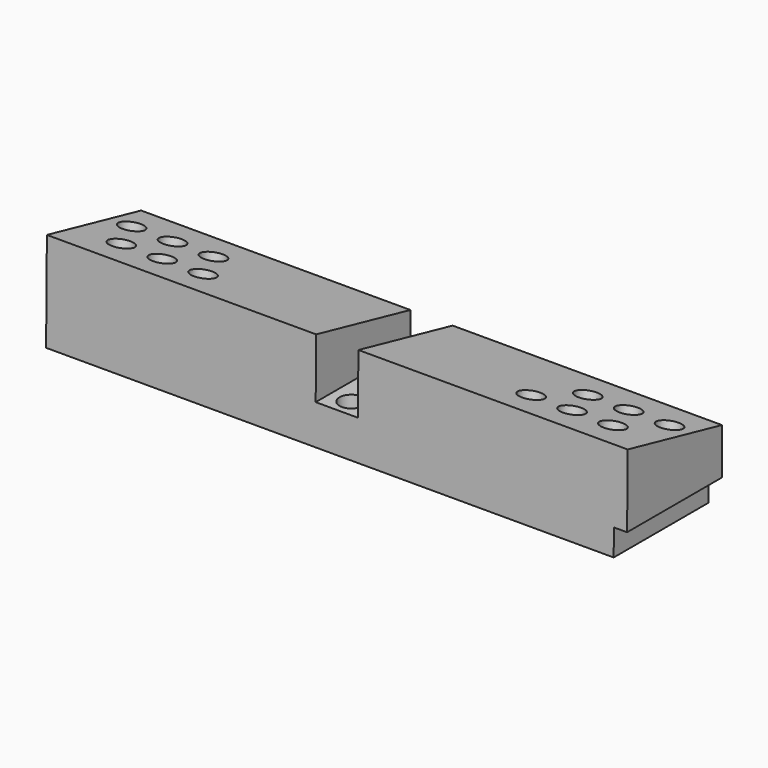
from build123d import *

# Parameters (mm, degrees)
F1_DEPTH  = 88
F2_R      = 1.778
F3_DEPTH  = 5
F4_R      = 1.778
F5_DEPTH  = 11.627384
F7_W      = 6.4
F7_H      = 21.920782
F8_DEPTH  = 25
F9_R      = 5
F10_DEPTH = 6
F11_W     = 2
F11_H     = 18
F12_DEPTH = 4


with BuildPart() as f1:
    # F0 (on Right) → F1 (new body)
    with BuildSketch(Plane.YZ):
        Polygon((0.151508, 14.999235), (0, 0), (18, 0), (18, 11), align=None)
    extrude(amount=F1_DEPTH)

    # F2 (on face) → F3 (cut)
    with BuildSketch(Plane(origin=(0, 3.207392, 14.314516), x_dir=(1, 0, 0), z_dir=(0, 0.218644, 0.975805))):
        with Locations((19.15, 2.659395)):
            Circle(F2_R)
        with Locations((12.95, 2.659395)):
            Circle(F2_R)
        with Locations((6.75, 2.659395)):
            Circle(F2_R)
        with Locations((15.65, 9.159395)):
            Circle(F2_R)
        with Locations((3.25, 9.159395)):
            Circle(F2_R)
        with Locations((75.05, 2.659395)):
            Circle(F2_R)
        with Locations((68.85, 2.659395)):
            Circle(F2_R)
        with Locations((81.25, 2.659395)):
            Circle(F2_R)
        with Locations((72.35, 9.159395)):
            Circle(F2_R)
        with Locations((78.55, 9.159395)):
            Circle(F2_R)
        with Locations((84.75, 9.159395)):
            Circle(F2_R)
        with Locations((9.45, 9.159395)):
            Circle(F2_R)
    extrude(amount=-F3_DEPTH, mode=Mode.SUBTRACT)

    # F4 (on face) → F5 (cut, through all)
    with BuildSketch(Plane(origin=(0, 0, 0), x_dir=(1, 0, 0), z_dir=(0, 0, -1))):
        with Locations((44, -15.2)):
            Circle(F4_R)
        with Locations((44, -2.8)):
            Circle(F4_R)
    extrude(amount=-F5_DEPTH, mode=Mode.SUBTRACT)

    # F7 (on offset) → F8 (cut)
    with BuildSketch(Plane.XY.offset(6)):
        with Locations((44, 7.695412)):
            Rectangle(F7_W, F7_H)
    extrude(amount=F8_DEPTH, mode=Mode.SUBTRACT)

    # F9 (on face) → F10 (cut)
    with BuildSketch(Plane(origin=(0, 0, 0), x_dir=(1, 0, 0), z_dir=(0, 0, -1))):
        with Locations((54, -12.2)):
            Circle(F9_R)
        with Locations((34, -12.2)):
            Circle(F9_R)
    extrude(amount=-F10_DEPTH, mode=Mode.SUBTRACT)

    # F11 (on face) → F12 (cut)
    with BuildSketch(Plane(origin=(0, 0, 0), x_dir=(1, 0, 0), z_dir=(0, 0, -1))):
        with Locations((87, -9)):
            Rectangle(F11_W, F11_H)
    extrude(amount=-F12_DEPTH, mode=Mode.SUBTRACT)


solid = f1.part
